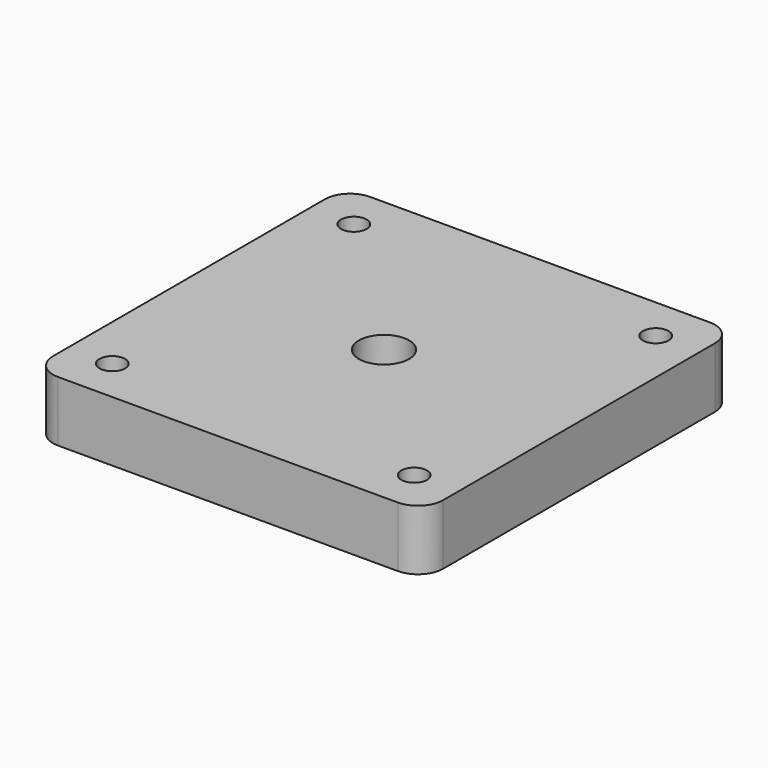
from build123d import *

# Parameters (mm, degrees)
F0_W     = 77.51
F0_H     = 77.519
F0_R     = 2.55
F0_W_2   = 29.902
F0_H_2   = 29.9
F0_R_2   = 5
F1_DEPTH = 12
F2_DEPTH = 6
F3_R     = 5


with BuildPart() as f1:
    # F0 (on Top) → F1 (new body)
    with BuildSketch(Plane.XY):
        Rectangle(F0_W, F0_H)
        with Locations((-30, -29.9995)):
            Circle(F0_R, mode=Mode.SUBTRACT)
        with Locations((30, -29.9995)):
            Circle(F0_R, mode=Mode.SUBTRACT)
        with Locations((-30, 29.9995)):
            Circle(F0_R, mode=Mode.SUBTRACT)
        Rectangle(F0_W_2, F0_H_2, mode=Mode.SUBTRACT)
        with Locations((30, 29.9995)):
            Circle(F0_R, mode=Mode.SUBTRACT)
        Rectangle(F0_W_2, F0_H_2)
        Circle(F0_R_2, mode=Mode.SUBTRACT)
    extrude(amount=F1_DEPTH)

    # F0 (on Top) → F2 (cut)
    with BuildSketch(Plane.XY):
        Rectangle(F0_W_2, F0_H_2)
        Circle(F0_R_2, mode=Mode.SUBTRACT)
    extrude(amount=F2_DEPTH, mode=Mode.SUBTRACT)

    # F3
    f3_edges = [f1.edges().sort_by_distance(p)[0] for p in [
        (38.755, -38.7595, 6),
        (-38.755, -38.7595, 6),
        (38.755, 38.7595, 6),
        (-38.755, 38.7595, 6),
    ]]
    fillet(f3_edges, radius=F3_R)


solid = f1.part
